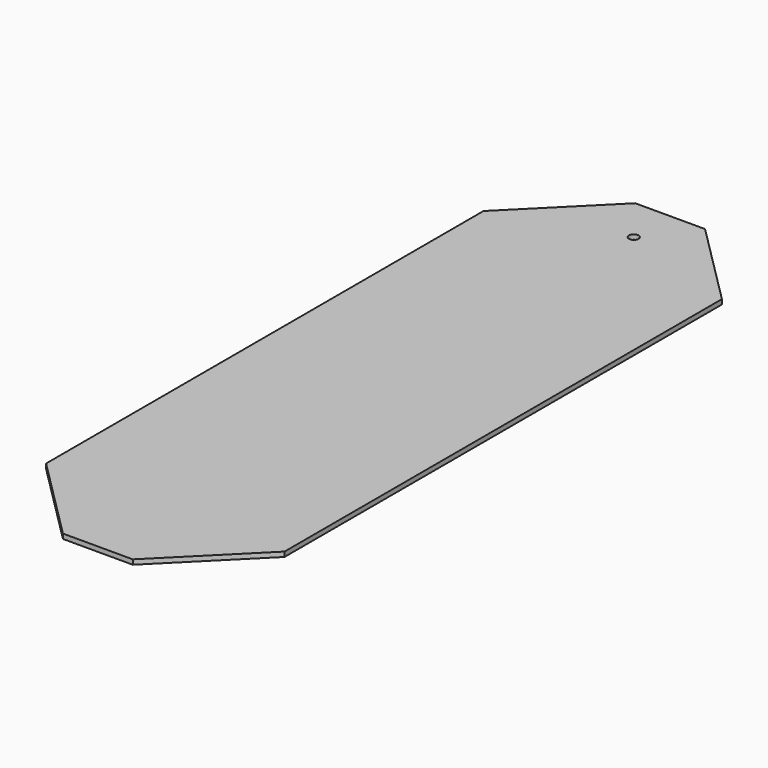
from build123d import *

# Parameters (mm, degrees)
F0_R     = 2
F1_DEPTH = 2


with BuildPart() as f1:
    # F0 (on Top) → F1 (new body)
    with BuildSketch(Plane.XY):
        Polygon((-35.355, 35.355678), (0, 0), (29.29, 0), (64.645, 35.355678), (64.645, 264.644322), (29.29, 300), (0, 300), (-35.355, 264.644322), align=None)
        with Locations((14.645, 280.935)):
            Circle(F0_R, mode=Mode.SUBTRACT)
    extrude(amount=F1_DEPTH)


solid = f1.part
